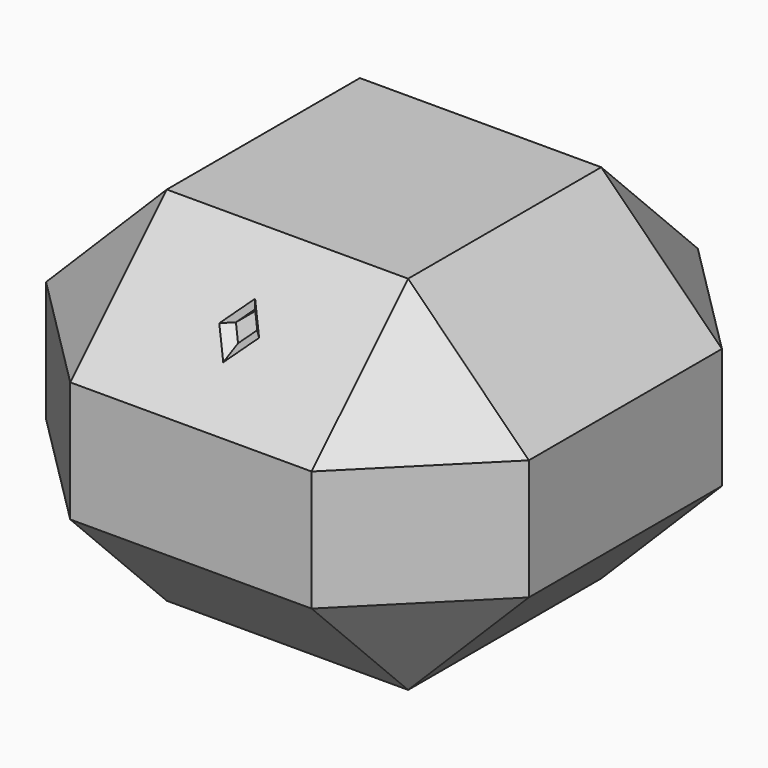
from build123d import *

# Parameters (mm, degrees)
F0_W     = 101.6
F0_H     = 76.2
F1_DEPTH = 50.8
F2_SIZE  = 25.4
F4_DEPTH = 76.2
F5_SIZE  = 1.5875
F6_SIZE  = 1.5875


with BuildPart() as f1:
    # F0 (on Front) → F1 (new body, symmetric)
    with BuildSketch(Plane.XZ):
        Rectangle(F0_W, F0_H)
    extrude(amount=F1_DEPTH, both=True)

    # F2
    f2_edges = [f1.edges().sort_by_distance(p)[0] for p in [
        (-50.8, -50.8, 0),
        (0, -50.8, -38.1),
        (50.8, -50.8, 0),
        (0, -50.8, 38.1),
        (-50.8, 50.8, 0),
        (-50.8, 0, -38.1),
        (-50.8, 0, 38.1),
        (0, 50.8, -38.1),
        (50.8, 0, -38.1),
        (50.8, 50.8, 0),
        (50.8, 0, 38.1),
        (0, 50.8, 38.1),
    ]]
    chamfer(f2_edges, length=F2_SIZE)

    # F3 (on Front) → F4 (cut, symmetric)
    with BuildSketch(Plane.XZ):
        Polygon((0, 27.6450640303), (-2.2450640303, 25.4), (0, 23.1549359697), (2.2450640303, 25.4), align=None)
    extrude(amount=F4_DEPTH, both=True, mode=Mode.SUBTRACT)

    # F5
    f5_edges = [f1.edges().sort_by_distance(p)[0] for p in [
        (1.122532, -39.222532, 24.277468),
        (-1.122532, -39.222532, 24.277468),
        (1.122532, 39.222532, 24.277468),
        (-1.122532, 39.222532, 24.277468),
    ]]
    chamfer(f5_edges, length=F5_SIZE)

    # F6
    f6_edges = [f1.edges().sort_by_distance(p)[0] for p in [
        (1.122532, -36.977468, 26.522532),
        (-1.122532, -36.977468, 26.522532),
        (-1.122532, 36.977468, 26.522532),
        (1.122532, 36.977468, 26.522532),
    ]]
    chamfer(f6_edges, length=F6_SIZE)


solid = f1.part
